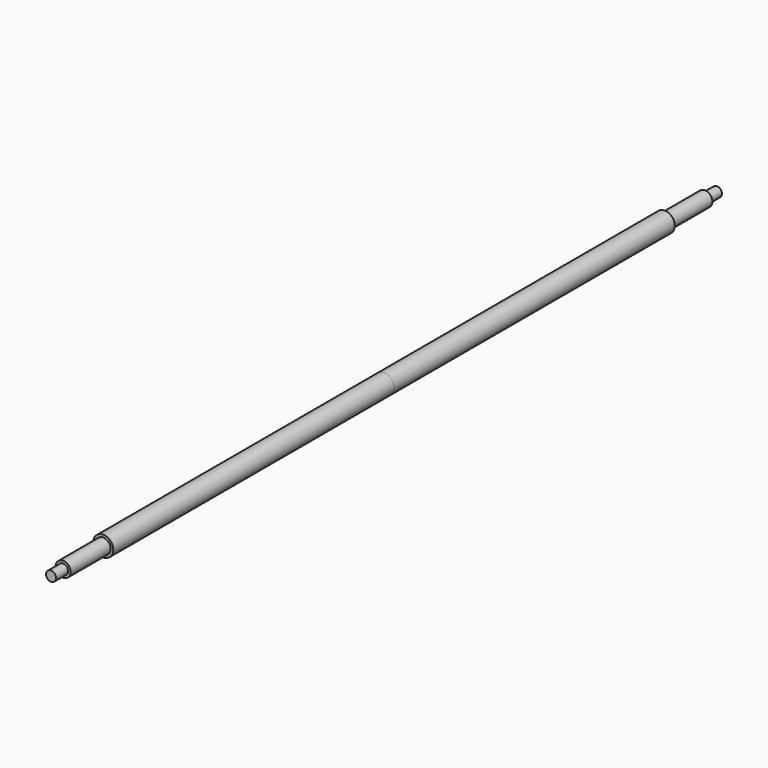
from build123d import *


with BuildPart() as f3:
    # F3: sweep along a path in F1
    with BuildLine(Plane.XZ) as f3_path:
        CenterArc((0, 0), 17.204414341, 0, 360)
    # F0 (on Right) → F3 (sweep)
    with BuildSketch(Plane.YZ):
        Polygon((-25.4, -6.35), (-25.4, -9.525), (38.1, -9.525), (38.1, -12.7), (482.6, -12.7), (482.6, 0), (-44.45, 0), (-44.45, -6.35), align=None)
    sweep(path=f3_path.line)

    # F4: F3 across plane


with BuildPart() as f3_1:
    add(f3.part)
    add(f3.part.mirror(Plane(origin=(0, 482.6, 0), x_dir=(-1, 0, 0), z_dir=(0, 1, 0))))


solid = f3_1.part
